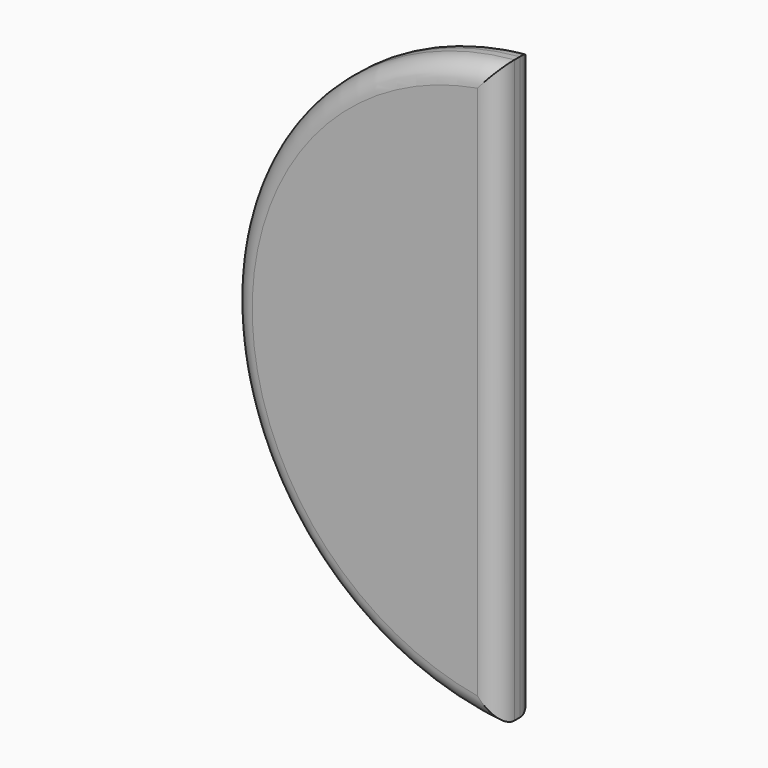
from build123d import *

# Parameters (mm, degrees)
F1_DEPTH = 2.3622
F2_R     = 1.016


with BuildPart() as f1:
    # F0 (on Front) → F1 (new body)
    with BuildSketch(Plane.XZ):
        with BuildLine():
            Line((-1.27, -14.4221906796), (-1.27, 14.4221906796))
            ThreePointArc((-1.27, 14.4221906796), (-14.478, 0), (-1.27, -14.4221906796))
        make_face()
    extrude(amount=-F1_DEPTH)

    # F2
    f2_edges = [f1.edges().sort_by_distance(p)[0] for p in [
        (-14.478, 0, 0),
        (-1.27, 0, 0),
        (-14.478, 2.3622, 0),
        (-1.27, 2.3622, 0),
    ]]
    fillet(f2_edges, radius=F2_R)


solid = f1.part
